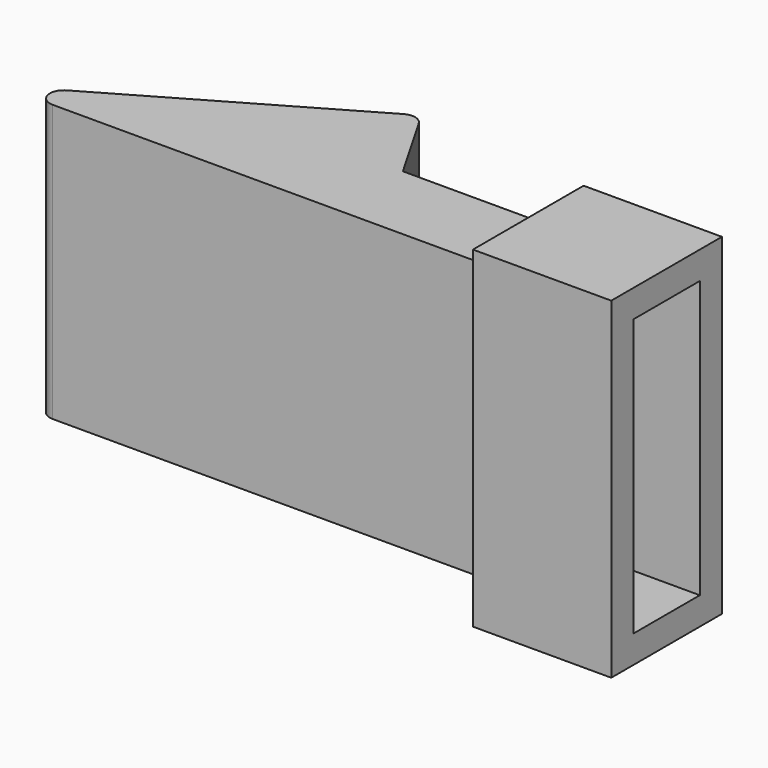
from build123d import *

# Parameters (mm, degrees)
F1_DEPTH      = 10
F3_W          = 3
F3_H          = 10
F4_DEPTH      = 9.464
F5_W          = 5
F5_H          = 12
F5_W_2        = 3
F5_H_2        = 10
F6_DEPTH      = 3
F6_DEPTH_BACK = 2
F7_R          = 0.5


with BuildPart() as f1:
    # F0 (on Top) → F1 (new body)
    with BuildSketch(Plane.XY):
        Polygon((-13.856406, 0), (0, 0), (-3.464102, 6), align=None)
    extrude(amount=F1_DEPTH)

    # F3 (on offset) → F4 (join)
    with BuildSketch(Plane.YZ.offset(-3.4643)):
        with Locations((1.5, 5)):
            Rectangle(F3_W, F3_H)
    extrude(amount=F4_DEPTH)

    # F7
    f7_edges = [f1.edges().sort_by_distance(p)[0] for p in [
        (-13.856406, 0, 5),
        (-3.464102, 6, 5),
    ]]
    fillet(f7_edges, radius=F7_R)


with BuildPart() as f6:
    # F5 (on face) → F6 (new body, two sides)
    with BuildSketch(Plane.YZ.offset(5.9997)) as f6_sk:
        with Locations((1.5, 5)):
            Rectangle(F5_W, F5_H)
        with Locations((1.5, 5)):
            Rectangle(F5_W_2, F5_H_2, mode=Mode.SUBTRACT)
    extrude(amount=F6_DEPTH)
    extrude(f6_sk.sketch, amount=-F6_DEPTH_BACK)


solid = Compound([f1.part, f6.part])
